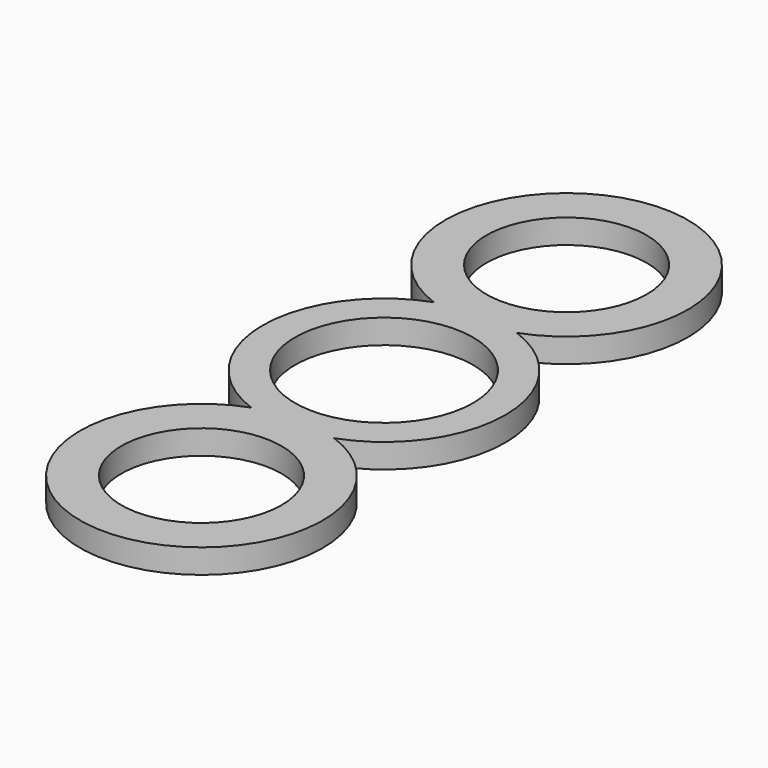
from build123d import *

# Parameters (mm, degrees)
F0_R     = 9.9
F0_R_2   = 11
F1_DEPTH = 3


with BuildPart() as f1:
    # F0 (on Top) → F1 (new body)
    with BuildSketch(Plane.XY):
        with BuildLine():
            ThreePointArc((5.122107, 14.09837), (0, 43.196739), (-5.122107, 14.09837))
            ThreePointArc((-5.122107, 14.09837), (-15, -0.000191), (-5.121748, -14.0985))
            ThreePointArc((-5.121748, -14.0985), (0, -43.197), (5.121748, -14.0985))
            ThreePointArc((5.121748, -14.0985), (15, -0.000191), (5.122107, 14.09837))
        make_face()
        with Locations((0, -28.197)):
            Circle(F0_R, mode=Mode.SUBTRACT)
        Circle(F0_R_2, mode=Mode.SUBTRACT)
        with Locations((0, 28.196739)):
            Circle(F0_R, mode=Mode.SUBTRACT)
    extrude(amount=F1_DEPTH)


solid = f1.part
